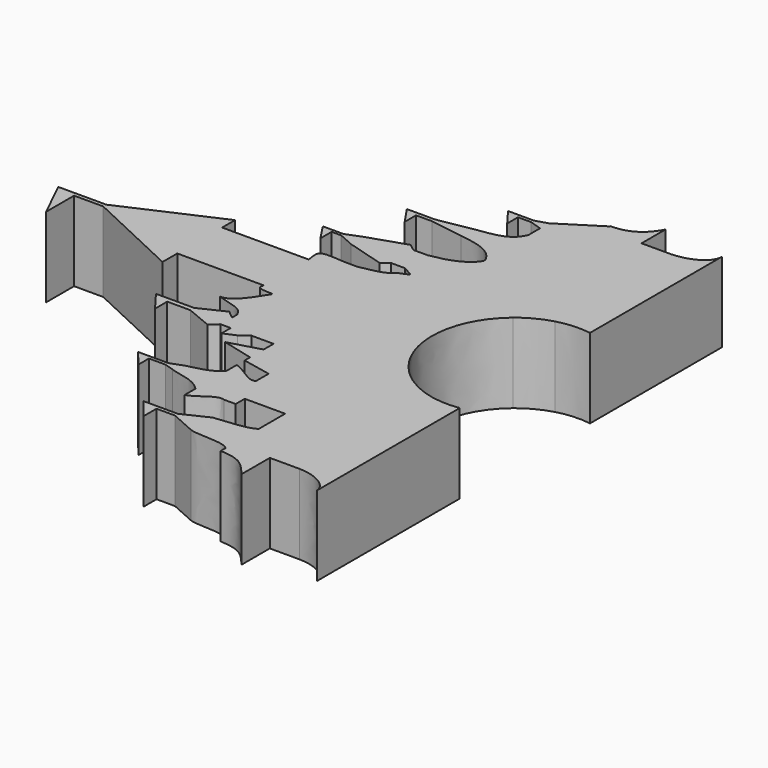
from build123d import *

# Parameters (mm, degrees)
F1_DEPTH = 6.35


with BuildPart() as f1:
    # F0 (on Top) → F1 (new body)
    with BuildSketch(Plane.XY):
        Polygon((0.1834236916, 7.8880131163), (-4.7903181985, 7.8880131163), (-4.7903181985, 9.1687804088), (-12.3439400011, 5.7951912562), (-14.6630853042, 5.7951912562), (-16.1663891522, 5.7951912562), (-14.6630853042, 2.7030388491), (-14.6630853042, 5.4910720885), (-12.3439400011, 5.4910720885), (-4.7903181985, 1.9511388382), (-4.7903181985, 3.4203144331), (0.1834236916, 3.4203144331), align=None)
        with BuildLine():
            Line((2.1060303181, 7.8880131163), (0.1834236916, 7.8880131163))
            Line((0.1834236916, 7.8880131163), (0.1834236916, 3.4203144331))
            Line((0.1834236916, 3.4203144331), (2.1060303181, 3.4203144331))
            add(Edge.make_bspline(
                [(2.1060303181, 3.4203144331), (2.0585884194, 3.2520463613), (1.9503986969, 2.9538006645), (2.5702472625, 2.8813394312), (2.9924210505, 2.8761012894)],
                knots=[0, 0, 0, 0, 0.3070376968, 0.69155598, 0.69155598, 0.69155598, 0.69155598], degree=3))
            Line((2.9924210505, 2.8761012894), (3.2679981086, 2.8616169744))
            add(Edge.make_bspline(
                [(3.2679981086, 2.8616169744), (2.7914050857, 2.1737371116), (1.9868838191, 0.5178304616), (0.9123911324, 0.5382541363)],
                knots=[0, 0, 0, 0, 3.3086098447, 3.3086098447, 3.3086098447, 3.3086098447], degree=3))
            add(Edge.make_bspline(
                [(0.9123911324, 0.5382541363), (2.8656946904, 0), (2.8656946904, 0), (3.2679981086, -0.6799643415)],
                knots=[0, 0, 0, 0, 2.6519691714, 2.6519691714, 2.6519691714, 2.6519691714], degree=3))
            Line((3.2679981086, -0.6799643415), (3.2679981086, -1.1921973201))
            Line((3.2679981086, -1.1921973201), (2.6279304688, -0.6799643415))
            Line((2.6279304688, -0.6799643415), (0.6114304125, -1.65224845))
            Line((0.6114304125, -1.65224845), (-1.2250866741, -1.65224845))
            Line((-1.2250866741, -1.65224845), (-2.4298036471, -1.65224845))
            Line((-2.4298036471, -1.65224845), (-1.2250866741, -3.2483356073))
            Line((-1.2250866741, -3.2483356073), (-1.2250866741, -2.0364066838))
            Line((-1.2250866741, -2.0364066838), (0.6114304125, -2.0364066838))
            Line((0.6114304125, -2.0364066838), (2.6475734437, -2.8821954269))
            Line((2.6475734437, -2.8821954269), (3.2679981086, -2.3415452671))
            Line((3.2679981086, -2.3415452671), (4.0818646494, -2.3415452671))
            Line((4.0818646494, -2.3415452671), (4.0818646494, -3.2702725391))
            Line((4.0818646494, -3.2702725391), (5.0330063804, -2.8564440694))
            Line((5.0330063804, -2.8564440694), (5.0330063804, 7.8880131163))
            Line((5.0330063804, 7.8880131163), (5.0330063804, 9.0109714307))
            Line((5.0330063804, 9.0109714307), (3.9251837879, 9.0305740014))
            add(Edge.make_bspline(
                [(2.1060303181, 7.8880131163), (2.0865880517, 8.2295626212), (1.6560118893, 9.3639546985), (3.3252192661, 9.044858627), (3.9251837879, 9.0305740014)],
                knots=[0, 0, 0, 0, 0.4315694695, 1, 1, 1, 1], degree=3))
        make_face()
        with BuildLine():
            add(Edge.make_bspline(
                [(5.0330063804, 9.0109714307), (6.1011151436, 9.2426813005), (6.9585340401, 9.2903161191), (7.5145763415, 9.9095628822)],
                knots=[0, 0, 0, 0, 2.6392529376, 2.6392529376, 2.6392529376, 2.6392529376], degree=3))
            Line((5.0330063804, 9.0109714307), (5.0330063804, 7.8880131163))
            Line((5.0330063804, 7.8880131163), (5.0330063804, -2.8564440694))
            Line((5.0330063804, -2.8564440694), (5.7200405139, -2.3415452671))
            Line((5.7200405139, -2.3415452671), (7.4898855164, -2.3415452671))
            Line((7.4898855164, -2.3415452671), (7.5145763415, 9.9095628822))
        make_face()
        with BuildLine():
            Line((8.3399300624, 10.2430026933), (7.5145763415, 9.9095628822))
            Line((7.5145763415, 9.9095628822), (7.4898855164, -2.3415452671))
            Line((7.4898855164, -2.3415452671), (7.4878999023, -3.3267684053))
            Line((7.4878999023, -3.3267684053), (7.4851780176, -4.6773147744))
            Line((7.4851780176, -4.6773147744), (7.4840999642, -5.2122239265))
            Line((7.4840999642, -5.2122239265), (9.7689609034, -5.6835334489))
            Line((9.7689609034, -5.6835334489), (9.7689609034, -6.9529982976))
            add(Edge.make_bspline(
                [(9.7689609034, -6.9529982976), (9.1497141403, -7.2388042699), (8.2974856147, -6.1908490383), (7.4825116558, -6.0003117235)],
                knots=[0, 0, 0, 0, 2.4769864493, 2.4769864493, 2.4769864493, 2.4769864493], degree=3))
            Line((7.4825116558, -6.0003117235), (7.4804957522, -7.0005639405))
            Line((7.4804957522, -7.0005639405), (7.4742556437, -10.0967846896))
            Line((7.4742556437, -10.0967846896), (7.4720476056, -11.1923702897))
            add(Edge.make_bspline(
                [(7.4720476056, -11.1923702897), (8.4351987198, -10.8113813722), (9.1020793217, -9.9063286339), (9.7689609034, -10.1444997875)],
                knots=[0, 0, 0, 0, 2.5246471608, 2.5246471608, 2.5246471608, 2.5246471608], degree=3))
            Line((9.7689609034, -10.1444997875), (10.7141864724, -10.1444997875))
            Line((10.7141864724, -10.1444997875), (10.7141864724, -9.242001335))
            Line((10.7141864724, -9.242001335), (10.7141864724, 14.53152558))
            add(Edge.make_bspline(
                [(7.5207204715, 12.9581608992), (8.730714409, 13.1429086064), (10.1557617863, 13.5515701553), (10.7141864724, 14.53152558)],
                knots=[0, 0, 0, 0, 3.5359684238, 3.5359684238, 3.5359684238, 3.5359684238], degree=3))
            Line((7.5207204715, 12.9581608992), (7.5162086266, 10.7194710514))
            Line((7.5162086266, 10.7194710514), (8.3399300624, 10.2430026933))
        make_face()
        Polygon((6.3870224473, 10.7217468078), (7.5162086266, 10.7194710514), (7.5207204715, 12.9581608992), (6.3870224473, 12.9581608992), (5.8153091713, 13.3868703474), (2.8716066148, 12.4056367225), (2.8716066148, 11.1492165131), (5.8153091713, 10.2906375119), align=None)
        Polygon((7.4851780176, -4.6773147744), (7.4878999023, -3.3267684053), (4.9971193634, -4.0421312981), align=None)
        with BuildLine():
            add(Edge.make_bspline(
                [(10.7141864724, 14.53152558), (10.7316892981, 14.5622405348), (10.7483407561, 14.5935167271), (10.76410754, 14.6253648533)],
                knots=[3.5359684238, 3.5359684238, 3.5359684238, 3.5359684238, 3.6467970468, 3.6467970468, 3.6467970468, 3.6467970468], degree=3))
            Line((10.7141864724, 14.53152558), (10.7141864724, -9.242001335))
            Line((10.7141864724, -9.242001335), (10.7160053635, -9.242001335))
            Line((10.7160053635, -9.242001335), (10.76410754, 14.6253648533))
        make_face()
        with BuildLine():
            Line((10.7141864724, 14.6253648533), (10.7141864724, 14.53152558))
            add(Edge.make_bspline(
                [(10.7141864724, 14.53152558), (10.7316892981, 14.5622405348), (10.7483407561, 14.5935167271), (10.76410754, 14.6253648533)],
                knots=[3.5359684238, 3.5359684238, 3.5359684238, 3.5359684238, 3.6467970468, 3.6467970468, 3.6467970468, 3.6467970468], degree=3))
            Line((10.76410754, 14.6253648533), (10.7141864724, 14.6253648533))
        make_face()
        with BuildLine():
            Line((10.7141864724, 14.7287947176), (10.7141864724, 14.6253648533))
            Line((10.7141864724, 14.6253648533), (10.76410754, 14.6253648533))
            add(Edge.make_bspline(
                [(10.76410754, 14.6253648533), (10.7479713487, 14.6606459093), (10.7313284303, 14.6951151895), (10.7141864724, 14.7287947176)],
                knots=[0, 0, 0, 0, 0.1038015803, 0.1038015803, 0.1038015803, 0.1038015803], degree=3))
        make_face()
        Polygon((10.7160053635, -9.242001335), (10.7141864724, -9.242001335), (10.7141864724, -10.1444997875), align=None)
        with BuildLine():
            add(Edge.make_bspline(
                [(10.76410754, 14.6253648533), (10.7479713487, 14.6606459093), (10.7313284303, 14.6951151895), (10.7141864724, 14.7287947176)],
                knots=[0, 0, 0, 0, 0.1038015803, 0.1038015803, 0.1038015803, 0.1038015803], degree=3))
            Line((10.76410754, 14.6253648533), (10.7160053635, -9.242001335))
            Line((10.7160053635, -9.242001335), (13.9305772512, -9.242001335))
            Line((13.9305772512, -9.242001335), (13.9305772512, 23.0627603685))
            Line((13.9305772512, 23.0627603685), (10.7141864724, 21.0274323482))
            Line((10.7141864724, 21.0274323482), (10.7141864724, 20.1536570475))
            Line((10.7141864724, 20.1536570475), (11.5061121473, 19.5882745279))
            Line((11.5061121473, 19.5882745279), (10.7141864724, 19.0077250538))
            Line((10.7141864724, 19.0077250538), (10.7141864724, 14.7287947176))
        make_face()
        Polygon((1.6492450015, 11.6919230158), (2.8716066148, 11.1492165131), (2.8716066148, 12.4056367225), (1.6492450015, 11.925432831), (0.8892579353, 11.925432831), (0, 11.925432831), (0.8892579353, 10.5677712709), (0.8892579353, 11.6919230158), align=None)
        with BuildLine():
            add(Edge.make_bspline(
                [(10.7141864724, 14.7287947176), (10.1295842472, 15.8773873848), (8.9645719557, 16.1074554605), (7.5240805464, 16.2925658681)],
                knots=[0.1038015803, 0.1038015803, 0.1038015803, 0.1038015803, 3.6438076435, 3.6438076435, 3.6438076435, 3.6438076435], degree=3))
            Line((10.7141864724, 14.7287947176), (10.7141864724, 19.0077250538))
            add(Edge.make_bspline(
                [(7.5240805464, 17.4834245756), (9.0544454829, 17.7215967091), (10.1976693718, 17.7692315277), (10.7141864724, 19.0077250538)],
                knots=[0, 0, 0, 0, 3.5355717737, 3.5355717737, 3.5355717737, 3.5355717737], degree=3))
            Line((7.5240805464, 17.4834245756), (7.5240805464, 16.2925658681))
        make_face()
        Polygon((10.7141864724, 20.1536570475), (10.7141864724, 19.0077250538), (11.5061121473, 19.5882745279), align=None)
        Polygon((4.8530192091, 16.7069397867), (7.5240805464, 16.2925658681), (7.5240805464, 17.4834245756), (4.8530192091, 17.0072428882), (3.870718414, 17.0072428882), (2.6218479516, 17.0072428882), (3.5944399424, 15.5778033659), (3.5944399424, 16.7069397867), align=None)
        with BuildLine():
            Line((13.9305772512, 23.0627603685), (13.9305772512, -9.242001335))
            Line((13.9305772512, -9.242001335), (13.9305772512, -11.8682525783))
            Line((13.9305772512, -11.8682525783), (13.9305772512, -15.1999737561))
            Line((13.9305772512, -15.1999737561), (13.9305772512, -15.6565345381))
            add(Edge.make_bspline(
                [(13.9305772512, -15.6565345381), (15.6959157117, -15.7328043315), (16.0126081873, -16.2850352989), (16.9017797104, -17.2906964785)],
                knots=[0, 0, 0, 0, 3.3909481419, 3.3909481419, 3.3909481419, 3.3909481419], degree=3))
            Line((16.9017797104, -17.2906964785), (16.9017797104, -14.4818088455))
            Line((16.9017797104, -14.4818088455), (16.9017797104, -0.455681688))
            add(Edge.make_bspline(
                [(16.9017797104, 9.7048678256), (10.7593297798, 4.6286176724), (16.9017797104, -0.455681688)],
                knots=[3.8024290674, 3.8024290674, 3.8024290674, 5.5757293138, 5.5757293138, 5.5757293138], degree=2, weights=[1, 0.6320115848, 1]))
            Line((16.9017797104, 9.7048678256), (16.9017797104, 22.5230625795))
            Line((16.9017797104, 22.5230625795), (16.9017797104, 24.9003670771))
            add(Edge.make_bspline(
                [(13.9305772512, 23.1176463854), (15.2599559105, 23.0938181985), (16.2695587347, 23.6823851912), (16.9017797104, 24.9003670771)],
                knots=[0, 0, 0, 0, 3.4649873186, 3.4649873186, 3.4649873186, 3.4649873186], degree=3))
            Line((13.9305772512, 23.1176463854), (13.9305772512, 23.0627603685))
        make_face()
        Polygon((9.7674876451, 20.4620137811), (10.7141864724, 20.1536570475), (10.7141864724, 21.0274323482), (9.7674876451, 20.7334253937), (8.7104067206, 20.7334253937), (7.6995525607, 20.7334253937), (8.7104067206, 19.3906482309), (8.7104067206, 20.4620137811), align=None)
        with BuildLine():
            Line((13.9305772512, -15.1999737561), (13.9305772512, -11.8682525783))
            add(Edge.make_bspline(
                [(13.9305772512, -11.8682525783), (13.2620565019, -12.3139327512), (11.7764552723, -12.313933731), (10.7365351954, -12.462493462)],
                knots=[0, 0, 0, 0, 3.2488500861, 3.2488500861, 3.2488500861, 3.2488500861], degree=3))
            Line((10.7365351954, -12.462493462), (10.7365351954, -14.6057338522))
            add(Edge.make_bspline(
                [(13.9305772512, -15.1999737561), (13.5591769438, -14.6057338522), (11.5288020837, -14.8824751045), (10.7365351954, -14.6057338522)],
                knots=[0, 0, 0, 0, 3.2488499069, 3.2488499069, 3.2488499069, 3.2488499069], degree=3))
        make_face()
        with BuildLine():
            Line((7.4742556437, -10.0967846896), (7.4804957522, -7.0005639405))
            add(Edge.make_bspline(
                [(7.4804957522, -7.0005639405), (6.7815499747, -7.8579823471), (5.3389658843, -7.9056853616), (4.7197191212, -8.1914918238)],
                knots=[0, 0, 0, 0, 3.0066920078, 3.0066920078, 3.0066920078, 3.0066920078], degree=3))
            Line((4.7197191212, -8.1914918238), (4.7197191212, -8.953641083))
            add(Edge.make_bspline(
                [(7.4742556437, -10.0967846896), (6.63240688, -9.1917319543), (5.4342340518, -9.2394470553), (4.7197191212, -8.953641083)],
                knots=[0, 0, 0, 0, 2.982322712, 2.982322712, 2.982322712, 2.982322712], degree=3))
        make_face()
        Polygon((10.7365351954, -14.6057338522), (10.7365351954, -12.462493462), (8.7296991049, -13.4213822833), (7.2634152989, -13.4213822833), (6.0109001781, -13.4213822833), (7.2634152989, -15.0263201466), (7.2634152989, -13.7119752222), (8.7296991049, -13.7119752222), align=None)
        Polygon((4.7197191212, -8.953641083), (4.7197191212, -8.1914918238), (3.9952427936, -8.4585528821), (2.6708117221, -8.4585528821), (1.585563994, -8.4585528821), (2.6708117221, -9.755496867), (2.6708117221, -8.7272878736), (3.9952427936, -8.7272878736), align=None)
        with BuildLine():
            Line((19.2618087725, 22.5230625795), (16.9017797104, 22.5230625795))
            Line((16.9017797104, 22.5230625795), (16.9017797104, 9.7048678256))
            add(Edge.make_bspline(
                [(19.2618087725, 10.940753251), (17.9536849381, 10.5741844881), (16.9017797104, 9.7048678256)],
                knots=[3.3884730704, 3.3884730704, 3.3884730704, 3.8024290674, 3.8024290674, 3.8024290674], degree=2, weights=[1, 0.978656414, 1]))
            Line((19.2618087725, 10.940753251), (19.2618087725, 22.5230625795))
        make_face()
        with BuildLine():
            add(Edge.make_bspline(
                [(19.2618087725, 22.5230625795), (20.4558772309, 22.5618891991), (21.9336108478, 23.140884722), (21.9336108478, 24.2364316861)],
                knots=[0, 0, 0, 0, 3.1739817304, 3.1739817304, 3.1739817304, 3.1739817304], degree=3))
            Line((19.2618087725, 22.5230625795), (19.2618087725, 10.940753251))
            add(Edge.make_bspline(
                [(21.9336108478, 11.1061908599), (20.5802643792, 11.3102172329), (19.2618087725, 10.940753251)],
                knots=[2.971341224, 2.971341224, 2.971341224, 3.3884730704, 3.3884730704, 3.3884730704], degree=2, weights=[1, 0.9783288564, 1]))
            Line((21.9336108478, 11.1061908599), (21.9336108478, 24.2364316861))
        make_face()
        with BuildLine():
            Line((16.9017797104, -0.455681688), (16.9017797104, -14.4818088455))
            Line((16.9017797104, -14.4818088455), (19.2618087725, -14.4818088455))
            Line((19.2618087725, -14.4818088455), (19.2618087725, -1.6946597496))
            add(Edge.make_bspline(
                [(16.9017797104, -0.455681688), (17.9536849381, -1.3263767912), (19.2618087725, -1.6946597496)],
                knots=[5.5757293138, 5.5757293138, 5.5757293138, 5.9896853109, 5.9896853109, 5.9896853109], degree=2, weights=[1, 0.978656414, 1]))
        make_face()
        with BuildLine():
            Line((19.2618087725, -1.6946597496), (19.2618087725, -14.4818088455))
            add(Edge.make_bspline(
                [(19.2618087725, -14.4818088455), (20.8404496659, -14.5127629536), (21.9336108478, -15.3781170674), (21.9336108478, -16.0907180028)],
                knots=[0, 0, 0, 0, 3.1188323145, 3.1188323145, 3.1188323145, 3.1188323145], degree=3))
            Line((21.9336108478, -16.0907180028), (21.9336108478, -1.8635985492))
            add(Edge.make_bspline(
                [(19.2618087725, -1.6946597496), (20.5802643792, -2.065851466), (21.9336108478, -1.8635985492)],
                knots=[5.9896853109, 5.9896853109, 5.9896853109, 6.4068171573, 6.4068171573, 6.4068171573], degree=2, weights=[1, 0.9783288564, 1]))
        make_face()
    extrude(amount=F1_DEPTH)


solid = f1.part
